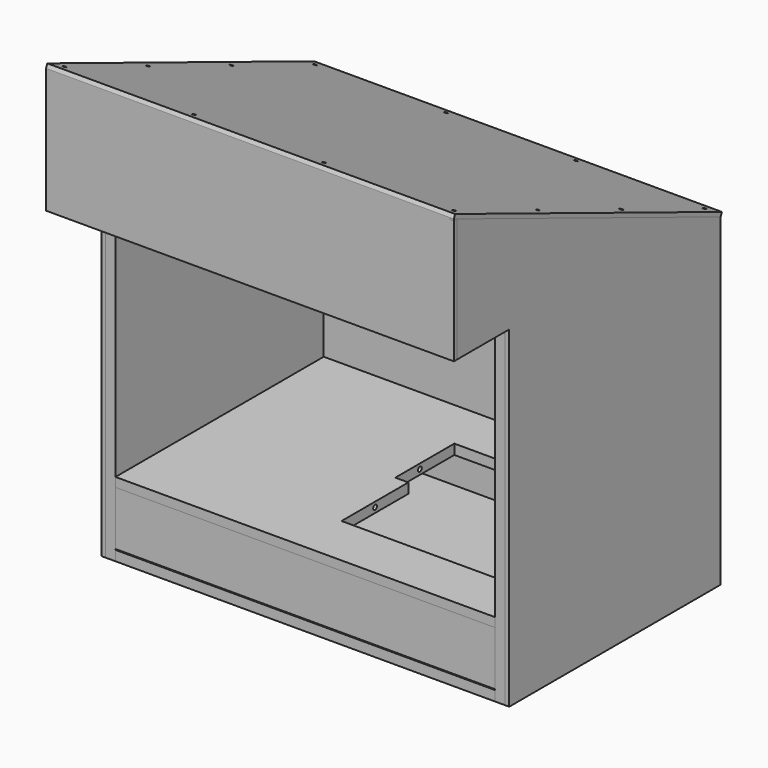
from build123d import *

# Parameters (mm, degrees)
F1_START       = -457.2
F0_W           = 304.8
F0_H           = 11.7348
F0_R           = 2.7390002063
F0_H_2         = 63.5
F0_W_2         = 76.2
F0_W_3         = 11.7348
F0_H_3         = 50.8
F1_DEPTH       = 11.7348
F2_START       = -0.9652
F2_DEPTH       = 11.7348
F3_START       = -12.7
F3_DEPTH       = 444.5
F5_W           = 444.5
F5_H           = 12.7
F6_DEPTH       = 63.5
F10_W          = 467.9696
F10_H          = 76.2001574039
F11_DEPTH      = 4.7625
F0_W_4         = 4.7625
F0_H_4         = 4.7625
F12_DEPTH      = 473.6973
F12_DEPTH_BACK = 3.7973
F14_W          = 477.4946
F14_H          = 420.751
F14_R          = 2.0180813207
F15_DEPTH      = 4.7625
F17_W          = 467.9696
F17_H          = 381
F18_DEPTH      = 4.7625
F20_W          = 15.24
F20_H          = 86.36
F21_DEPTH      = 30.734
F22_DEPTH      = 502.412
F23_DEPTH      = 3.7973
F23_DEPTH_BACK = 0.9652
F24_START      = -468.9348
F24_DEPTH      = 4.7625
F26_START      = -12.7
F26_DEPTH      = 444.5


with BuildPart() as f1:
    # F0 (on Right) → F1 (new body)
    with BuildSketch(Plane.YZ.offset(F1_START)):
        with Locations((228.6, -302.1055676247)):
            Rectangle(F0_W, F0_H)
        with Locations((101.6, -302.1055676247)):
            Circle(F0_R, mode=Mode.SUBTRACT)
        with Locations((186.2582, -302.1055676247)):
            Circle(F0_R, mode=Mode.SUBTRACT)
        with Locations((270.9418, -302.1055676247)):
            Circle(F0_R, mode=Mode.SUBTRACT)
        with Locations((355.6, -302.1055676247)):
            Circle(F0_R, mode=Mode.SUBTRACT)
        with Locations((228.6, -264.4881676247)):
            Rectangle(F0_W, F0_H_2)
        with Locations((228.6, -226.8707676247)):
            Rectangle(F0_W, F0_H)
        with Locations((101.6, -226.8707676247)):
            Circle(F0_R, mode=Mode.SUBTRACT)
        with Locations((186.2582, -226.8707676247)):
            Circle(F0_R, mode=Mode.SUBTRACT)
        with Locations((270.9418, -226.8707676247)):
            Circle(F0_R, mode=Mode.SUBTRACT)
        with Locations((355.6, -226.8707676247)):
            Circle(F0_R, mode=Mode.SUBTRACT)
        Polygon((76.2, -221.0033676247), (381, -221.0033676247), (381, 22.2270323753), (369.2652, 22.2270323753), (369.2652, 73.0270323753), (381, 73.0270323753), (0, 225.8036157132), (0, 97.4618323753), (76.2, 97.4618323753), (76.2, 85.7270323753), (76.2, 80.9645323753), align=None)
        with Locations((38.1, 91.5944323753)):
            Rectangle(F0_W_2, F0_H)
        with Locations((12.7, 91.5944323753)):
            Circle(F0_R, mode=Mode.SUBTRACT)
        with Locations((63.5, 91.5944323753)):
            Circle(F0_R, mode=Mode.SUBTRACT)
        with Locations((375.1326, 47.6270323753)):
            Rectangle(F0_W_3, F0_H_3)
        with Locations((375.1326, 34.9270323753)):
            Circle(F0_R, mode=Mode.SUBTRACT)
        with Locations((375.1326, 60.3270323753)):
            Circle(F0_R, mode=Mode.SUBTRACT)
    extrude(amount=-F1_DEPTH)


with BuildPart() as f2:
    # F0 (on Right) → F2 (new body)
    with BuildSketch(Plane.YZ.offset(F2_START)):
        Polygon((76.2, -221.0033676247), (381, -221.0033676247), (381, 22.2270323753), (369.2652, 22.2270323753), (369.2652, 73.0270323753), (381, 73.0270323753), (0, 225.8036157132), (0, 97.4618323753), (76.2, 97.4618323753), (76.2, 85.7270323753), (76.2, 80.9645323753), align=None)
        with Locations((228.6, -226.8707676247)):
            Rectangle(F0_W, F0_H)
        with Locations((101.6, -226.8707676247)):
            Circle(F0_R, mode=Mode.SUBTRACT)
        with Locations((186.2582, -226.8707676247)):
            Circle(F0_R, mode=Mode.SUBTRACT)
        with Locations((270.9418, -226.8707676247)):
            Circle(F0_R, mode=Mode.SUBTRACT)
        with Locations((355.6, -226.8707676247)):
            Circle(F0_R, mode=Mode.SUBTRACT)
        with Locations((228.6, -264.4881676247)):
            Rectangle(F0_W, F0_H_2)
        with Locations((228.6, -302.1055676247)):
            Rectangle(F0_W, F0_H)
        with Locations((101.6, -302.1055676247)):
            Circle(F0_R, mode=Mode.SUBTRACT)
        with Locations((186.2582, -302.1055676247)):
            Circle(F0_R, mode=Mode.SUBTRACT)
        with Locations((270.9418, -302.1055676247)):
            Circle(F0_R, mode=Mode.SUBTRACT)
        with Locations((355.6, -302.1055676247)):
            Circle(F0_R, mode=Mode.SUBTRACT)
        with Locations((38.1, 91.5944323753)):
            Rectangle(F0_W_2, F0_H)
        with Locations((12.7, 91.5944323753)):
            Circle(F0_R, mode=Mode.SUBTRACT)
        with Locations((63.5, 91.5944323753)):
            Circle(F0_R, mode=Mode.SUBTRACT)
        with Locations((375.1326, 47.6270323753)):
            Rectangle(F0_W_3, F0_H_3)
        with Locations((375.1326, 34.9270323753)):
            Circle(F0_R, mode=Mode.SUBTRACT)
        with Locations((375.1326, 60.3270323753)):
            Circle(F0_R, mode=Mode.SUBTRACT)
    extrude(amount=-F2_DEPTH)


with BuildPart() as f3:
    # F0 (on Right) → F3 (new body)
    with BuildSketch(Plane.YZ.offset(F3_START)):
        with Locations((228.6, -226.8707676247)):
            Rectangle(F0_W, F0_H)
        with Locations((101.6, -226.8707676247)):
            Circle(F0_R, mode=Mode.SUBTRACT)
        with Locations((186.2582, -226.8707676247)):
            Circle(F0_R, mode=Mode.SUBTRACT)
        with Locations((270.9418, -226.8707676247)):
            Circle(F0_R, mode=Mode.SUBTRACT)
        with Locations((355.6, -226.8707676247)):
            Circle(F0_R, mode=Mode.SUBTRACT)
    extrude(amount=-F3_DEPTH)

    # F20 (on offset) → F21 (cut)
    with BuildSketch(Plane.XY.offset(-221.0033676247)):
        Polygon((-241.3, 137.16), (-25.4, 137.16), (-25.4, 321.31), (-241.3, 321.31), (-241.3, 234.95), align=None)
        with Locations((-248.92, 278.13)):
            Rectangle(F20_W, F20_H)
    extrude(amount=-F21_DEPTH, mode=Mode.SUBTRACT)


with BuildPart() as f3b:
    # F0 (on Right) → F3, piece 2 (new body)
    with BuildSketch(Plane.YZ.offset(F3_START)):
        with Locations((228.6, -302.1055676247)):
            Rectangle(F0_W, F0_H)
        with Locations((101.6, -302.1055676247)):
            Circle(F0_R, mode=Mode.SUBTRACT)
        with Locations((186.2582, -302.1055676247)):
            Circle(F0_R, mode=Mode.SUBTRACT)
        with Locations((270.9418, -302.1055676247)):
            Circle(F0_R, mode=Mode.SUBTRACT)
        with Locations((355.6, -302.1055676247)):
            Circle(F0_R, mode=Mode.SUBTRACT)
    extrude(amount=-F3_DEPTH)


with BuildPart() as f3c:
    # F0 (on Right) → F3, piece 3 (new body)
    with BuildSketch(Plane.YZ.offset(F3_START)):
        with Locations((38.1, 91.5944323753)):
            Rectangle(F0_W_2, F0_H)
        with Locations((12.7, 91.5944323753)):
            Circle(F0_R, mode=Mode.SUBTRACT)
        with Locations((63.5, 91.5944323753)):
            Circle(F0_R, mode=Mode.SUBTRACT)
    extrude(amount=-F3_DEPTH)


with BuildPart() as f3d:
    # F0 (on Right) → F3, piece 4 (new body)
    with BuildSketch(Plane.YZ.offset(F3_START)):
        with Locations((375.1326, 47.6270323753)):
            Rectangle(F0_W_3, F0_H_3)
        with Locations((375.1326, 34.9270323753)):
            Circle(F0_R, mode=Mode.SUBTRACT)
        with Locations((375.1326, 60.3270323753)):
            Circle(F0_R, mode=Mode.SUBTRACT)
    extrude(amount=-F3_DEPTH)


with BuildPart() as f6:
    # F5 (on offset) → F6 (new body)
    with BuildSketch(Plane(origin=(0, 0, -295.2729676247), x_dir=(1, 0, 0), z_dir=(0, 0, -1))):
        with Locations((-234.95, -374.65)):
            Rectangle(F5_W, F5_H)
    extrude(amount=-F6_DEPTH)


with BuildPart() as f6b:
    # F5 (on offset) → F6, piece 2 (new body)
    with BuildSketch(Plane(origin=(0, 0, -295.2729676247), x_dir=(1, 0, 0), z_dir=(0, 0, -1))):
        with Locations((-234.95, -82.55)):
            Rectangle(F5_W, F5_H)
    extrude(amount=-F6_DEPTH)


with BuildPart() as f11:
    # F10 (on offset) → F11 (new body)
    with BuildSketch(Plane(origin=(0, 0, 85.7270323753), x_dir=(1, 0, 0), z_dir=(0, 0, -1))):
        with Locations((-234.95, -38.100078702)):
            Rectangle(F10_W, F10_H)
    extrude(amount=F11_DEPTH)


with BuildPart() as f12:
    # F0 (on Right) → F12 (new body, two sides)
    with BuildSketch(Plane.YZ) as f12_sk:
        Polygon((0, 97.4618323753), (0, 225.8036157132), (-4.7625, 225.8036157132), (-4.7625, 85.7270323753), (0, 85.7270323753), align=None)
        Polygon((-4.7625, 225.8036157132), (0, 225.8036157132), (-4.7625, 227.7133230049), align=None)
        with Locations((-2.38125, 83.3457823753)):
            Rectangle(F0_W_4, F0_H_4)
    extrude(amount=-F12_DEPTH)
    extrude(f12_sk.sketch, amount=F12_DEPTH_BACK)


with BuildPart() as f15:
    # F14 (on offset) → F15 (new body)
    with BuildSketch(Plane(origin=(0, 78.0024806147, 194.525525214), x_dir=(1, 0, 0), z_dir=(0, 0.3721814041, 0.9281600091))):
        with Locations((-234.95, 121.204473661)):
            Rectangle(F14_W, F14_H)
        with Locations((-463.1182, -76.471026339)):
            Circle(F14_R, mode=Mode.SUBTRACT)
        with Locations((-311.1701577164, -76.471026339)):
            Circle(F14_R, mode=Mode.SUBTRACT)
        with Locations((-463.1182, 55.312644561)):
            Circle(F14_R, mode=Mode.SUBTRACT)
        with Locations((-158.9770138565, -76.471026339)):
            Circle(F14_R, mode=Mode.SUBTRACT)
        with Locations((-6.8326, -76.471026339)):
            Circle(F14_R, mode=Mode.SUBTRACT)
        with Locations((-6.8326, 55.312644561)):
            Circle(F14_R, mode=Mode.SUBTRACT)
        with Locations((-463.1182, 187.096315461)):
            Circle(F14_R, mode=Mode.SUBTRACT)
        with Locations((-463.1182, 318.879973661)):
            Circle(F14_R, mode=Mode.SUBTRACT)
        with Locations((-311.023, 320.5822600025)):
            Circle(F14_R, mode=Mode.SUBTRACT)
        with Locations((-6.8326, 187.096315461)):
            Circle(F14_R, mode=Mode.SUBTRACT)
        with Locations((-158.9278, 320.5822600025)):
            Circle(F14_R, mode=Mode.SUBTRACT)
        with Locations((-6.8326, 318.879973661)):
            Circle(F14_R, mode=Mode.SUBTRACT)
    extrude(amount=F15_DEPTH)


with BuildPart() as f18:
    # F17 (on offset) → F18 (new body)
    with BuildSketch(Plane(origin=(0, 381, 0), x_dir=(-1, 0, 0), z_dir=(0, 1, 0))):
        with Locations((234.95, -117.4729676247)):
            Rectangle(F17_W, F17_H)
    extrude(amount=F18_DEPTH)

    # F0 (on Right) → F22 (cut)
    with BuildSketch(Plane.YZ):
        Polygon((381, 73.0270323753), (385.7625, 71.1173250836), (385.6016222942, 78.5976974193), (381, 78.5976974193), align=None)
    extrude(amount=-F22_DEPTH, mode=Mode.SUBTRACT)


with BuildPart() as f23:
    # F0 (on Right) → F23 (new body, two sides)
    with BuildSketch(Plane.YZ) as f23_sk:
        Polygon((-4.7625, 225.8036157132), (0, 225.8036157132), (-4.7625, 227.7133230049), align=None)
    extrude(amount=F23_DEPTH)
    extrude(f23_sk.sketch, amount=-F23_DEPTH_BACK)


with BuildPart() as f23b:
    # F0 (on Right) → F23, piece 2 (new body, two sides)
    with BuildSketch(Plane.YZ) as f23_2_sk:
        with Locations((228.6, -264.4881676247)):
            Rectangle(F0_W, F0_H_2)
        with Locations((375.1326, 47.6270323753)):
            Rectangle(F0_W_3, F0_H_3)
        with Locations((375.1326, 34.9270323753)):
            Circle(F0_R, mode=Mode.SUBTRACT)
        with Locations((375.1326, 60.3270323753)):
            Circle(F0_R, mode=Mode.SUBTRACT)
        with Locations((38.1, 83.3457823753)):
            Rectangle(F0_W_2, F0_H_4)
        with Locations((228.6, -302.1055676247)):
            Rectangle(F0_W, F0_H)
        with Locations((101.6, -302.1055676247)):
            Circle(F0_R, mode=Mode.SUBTRACT)
        with Locations((186.2582, -302.1055676247)):
            Circle(F0_R, mode=Mode.SUBTRACT)
        with Locations((270.9418, -302.1055676247)):
            Circle(F0_R, mode=Mode.SUBTRACT)
        with Locations((355.6, -302.1055676247)):
            Circle(F0_R, mode=Mode.SUBTRACT)
        Polygon((76.2, -221.0033676247), (381, -221.0033676247), (381, 22.2270323753), (369.2652, 22.2270323753), (369.2652, 73.0270323753), (381, 73.0270323753), (0, 225.8036157132), (0, 97.4618323753), (76.2, 97.4618323753), (76.2, 85.7270323753), (76.2, 80.9645323753), align=None)
        with Locations((228.6, -226.8707676247)):
            Rectangle(F0_W, F0_H)
        with Locations((101.6, -226.8707676247)):
            Circle(F0_R, mode=Mode.SUBTRACT)
        with Locations((186.2582, -226.8707676247)):
            Circle(F0_R, mode=Mode.SUBTRACT)
        with Locations((270.9418, -226.8707676247)):
            Circle(F0_R, mode=Mode.SUBTRACT)
        with Locations((355.6, -226.8707676247)):
            Circle(F0_R, mode=Mode.SUBTRACT)
        with Locations((38.1, 91.5944323753)):
            Rectangle(F0_W_2, F0_H)
        with Locations((12.7, 91.5944323753)):
            Circle(F0_R, mode=Mode.SUBTRACT)
        with Locations((63.5, 91.5944323753)):
            Circle(F0_R, mode=Mode.SUBTRACT)
        with Locations((12.7, 91.5944323753)):
            Circle(F0_R)
        with Locations((375.1326, 60.3270323753)):
            Circle(F0_R)
        with Locations((375.1326, 34.9270323753)):
            Circle(F0_R)
        with Locations((186.2582, -302.1055676247)):
            Circle(F0_R)
        with Locations((101.6, -302.1055676247)):
            Circle(F0_R)
        with Locations((101.6, -226.8707676247)):
            Circle(F0_R)
        with Locations((186.2582, -226.8707676247)):
            Circle(F0_R)
        with Locations((270.9418, -226.8707676247)):
            Circle(F0_R)
        with Locations((355.6, -226.8707676247)):
            Circle(F0_R)
        with Locations((355.6, -302.1055676247)):
            Circle(F0_R)
        with Locations((270.9418, -302.1055676247)):
            Circle(F0_R)
        with Locations((63.5, 91.5944323753)):
            Circle(F0_R)
        Polygon((381, -296.2381676247), (381, -307.9729676247), (385.7625, -307.9729676247), (385.7625, 71.1173250836), (381, 73.0270323753), (381, 22.2270323753), (381, -221.0033676247), (381, -232.7381676247), align=None)
    extrude(amount=F23_DEPTH)
    extrude(f23_2_sk.sketch, amount=-F23_DEPTH_BACK)


with BuildPart() as f24:
    # F0 (on Right) → F24 (new body)
    with BuildSketch(Plane.YZ.offset(F24_START)):
        with Locations((228.6, -264.4881676247)):
            Rectangle(F0_W, F0_H_2)
        with Locations((38.1, 83.3457823753)):
            Rectangle(F0_W_2, F0_H_4)
        with Locations((375.1326, 47.6270323753)):
            Rectangle(F0_W_3, F0_H_3)
        with Locations((375.1326, 34.9270323753)):
            Circle(F0_R, mode=Mode.SUBTRACT)
        with Locations((375.1326, 60.3270323753)):
            Circle(F0_R, mode=Mode.SUBTRACT)
        with Locations((228.6, -302.1055676247)):
            Rectangle(F0_W, F0_H)
        with Locations((101.6, -302.1055676247)):
            Circle(F0_R, mode=Mode.SUBTRACT)
        with Locations((186.2582, -302.1055676247)):
            Circle(F0_R, mode=Mode.SUBTRACT)
        with Locations((270.9418, -302.1055676247)):
            Circle(F0_R, mode=Mode.SUBTRACT)
        with Locations((355.6, -302.1055676247)):
            Circle(F0_R, mode=Mode.SUBTRACT)
        Polygon((76.2, -221.0033676247), (381, -221.0033676247), (381, 22.2270323753), (369.2652, 22.2270323753), (369.2652, 73.0270323753), (381, 73.0270323753), (0, 225.8036157132), (0, 97.4618323753), (76.2, 97.4618323753), (76.2, 85.7270323753), (76.2, 80.9645323753), align=None)
        with Locations((228.6, -226.8707676247)):
            Rectangle(F0_W, F0_H)
        with Locations((101.6, -226.8707676247)):
            Circle(F0_R, mode=Mode.SUBTRACT)
        with Locations((186.2582, -226.8707676247)):
            Circle(F0_R, mode=Mode.SUBTRACT)
        with Locations((270.9418, -226.8707676247)):
            Circle(F0_R, mode=Mode.SUBTRACT)
        with Locations((355.6, -226.8707676247)):
            Circle(F0_R, mode=Mode.SUBTRACT)
        with Locations((38.1, 91.5944323753)):
            Rectangle(F0_W_2, F0_H)
        with Locations((12.7, 91.5944323753)):
            Circle(F0_R, mode=Mode.SUBTRACT)
        with Locations((63.5, 91.5944323753)):
            Circle(F0_R, mode=Mode.SUBTRACT)
        with Locations((12.7, 91.5944323753)):
            Circle(F0_R)
        with Locations((63.5, 91.5944323753)):
            Circle(F0_R)
        with Locations((375.1326, 60.3270323753)):
            Circle(F0_R)
        with Locations((375.1326, 34.9270323753)):
            Circle(F0_R)
        Polygon((381, -296.2381676247), (381, -307.9729676247), (385.7625, -307.9729676247), (385.7625, 71.1173250836), (381, 73.0270323753), (381, 22.2270323753), (381, -221.0033676247), (381, -232.7381676247), align=None)
        with Locations((101.6, -226.8707676247)):
            Circle(F0_R)
        with Locations((186.2582, -226.8707676247)):
            Circle(F0_R)
        with Locations((186.2582, -302.1055676247)):
            Circle(F0_R)
        with Locations((101.6, -302.1055676247)):
            Circle(F0_R)
        with Locations((270.9418, -226.8707676247)):
            Circle(F0_R)
        with Locations((355.6, -226.8707676247)):
            Circle(F0_R)
        with Locations((355.6, -302.1055676247)):
            Circle(F0_R)
        with Locations((270.9418, -302.1055676247)):
            Circle(F0_R)
    extrude(amount=-F24_DEPTH)


with BuildPart() as f26:
    # F25 (on face) → F26 (new body)
    with BuildSketch(Plane.YZ.offset(F26_START)):
        Polygon((48.6769891446, 206.2490654139), (0, 225.8036157132), (0, 213.1573366204), (44.3026470148, 195.3600497572), align=None)
    extrude(amount=-F26_DEPTH)


solid = Compound([f1.part, f2.part, f3.part, f3b.part, f3c.part, f3d.part, f6.part, f6b.part, f11.part, f12.part, f15.part, f18.part, f23.part, f23b.part, f24.part, f26.part])
